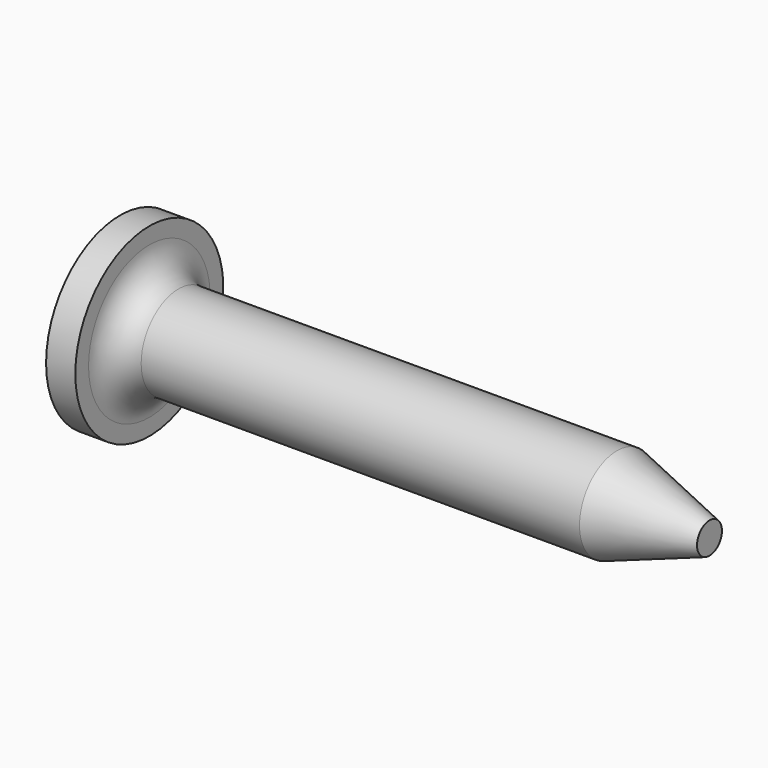
from build123d import *

# Parameters (mm, degrees)
FILLET_R = 1.5


with BuildPart() as part:
    # Sketch → Revolution (revolve)
    with BuildSketch(Plane.XY):
        Polygon((0, 0), (1.5, 0), (25.5, 0), (30.25, 0), (30.25, -0.8), (25.5, -2.4), (1.5, -2.4), (1.5, -4.75), (0, -4.75), align=None)
    revolve(axis=Axis((0, 0, 0), (1, 0, 0)))

    # Fillet
    fillet_edges = [part.edges().sort_by_distance(p)[0] for p in [
        (1.5, 2.4, 0),
    ]]
    fillet(fillet_edges, radius=FILLET_R)


solid = part.part
